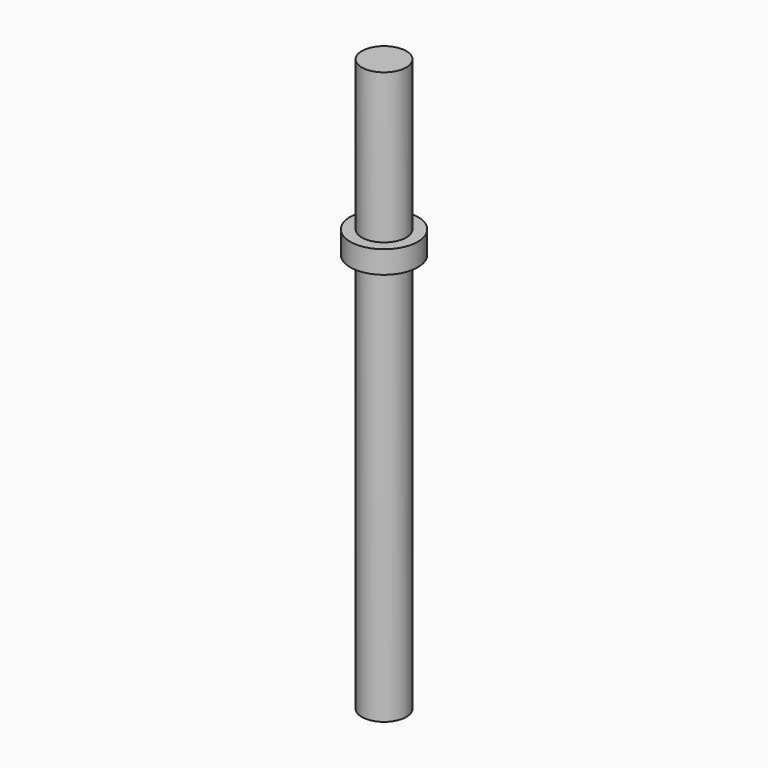
from build123d import *

# Parameters (mm, degrees)
F0_R     = 3.95
F1_DEPTH = 101.6
F3_R     = 6
F4_DEPTH = 4


with BuildPart() as f1:
    # F0 (on Top) → F1 (new body)
    with BuildSketch(Plane.XY):
        Circle(F0_R)
    extrude(amount=F1_DEPTH)

    # F3 (on offset) → F4 (join)
    with BuildSketch(Plane.XY.offset(75)):
        Circle(F3_R)
    extrude(amount=-F4_DEPTH)


solid = f1.part
